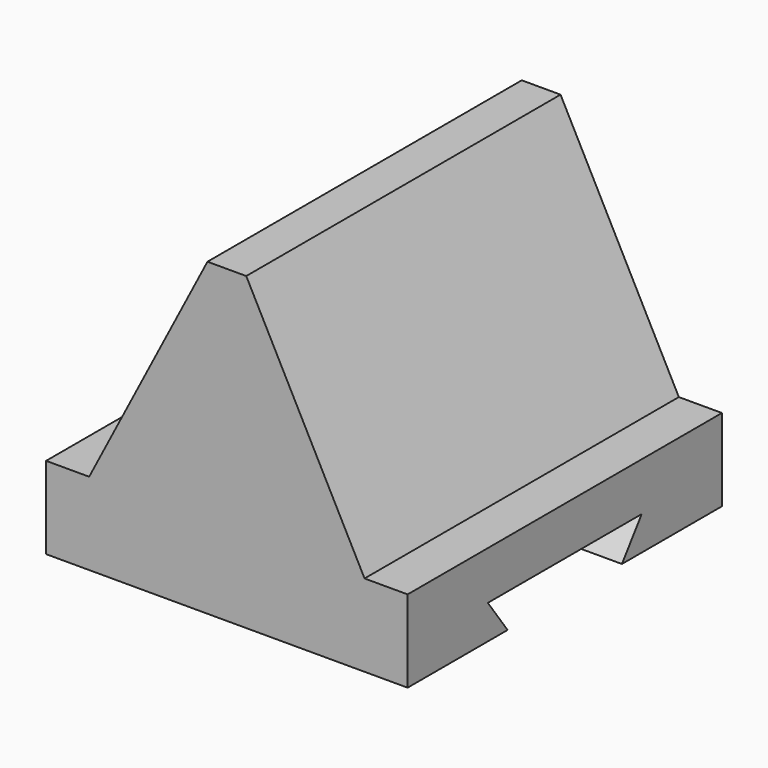
from build123d import *

# Parameters (mm, degrees)
F1_DEPTH = 60
F3_DEPTH = 110.43133


with BuildPart() as f1:
    # F0 (on Front) → F1 (new body, symmetric)
    with BuildSketch(Plane.XZ):
        Polygon((-55.215165, 0), (55.215165, 0), (55.215165, 25.093604), (42.05372, 25.093604), (5.924813, 94.666541), (-5.924813, 94.666541), (-42.05372, 25.093604), (-55.215165, 25.093604), align=None)
    extrude(amount=F1_DEPTH, both=True)

    # F2 (on face) → F3 (cut, through all)
    with BuildSketch(Plane(origin=(-55.215165, 0, 0), x_dir=(0, -1, 0), z_dir=(-1, 0, 0))):
        Polygon((-29.373521, 10.365414), (-21.829192, 0), (21.829192, 0), (29.373521, 10.365414), align=None)
    extrude(amount=-F3_DEPTH, mode=Mode.SUBTRACT)


solid = f1.part
